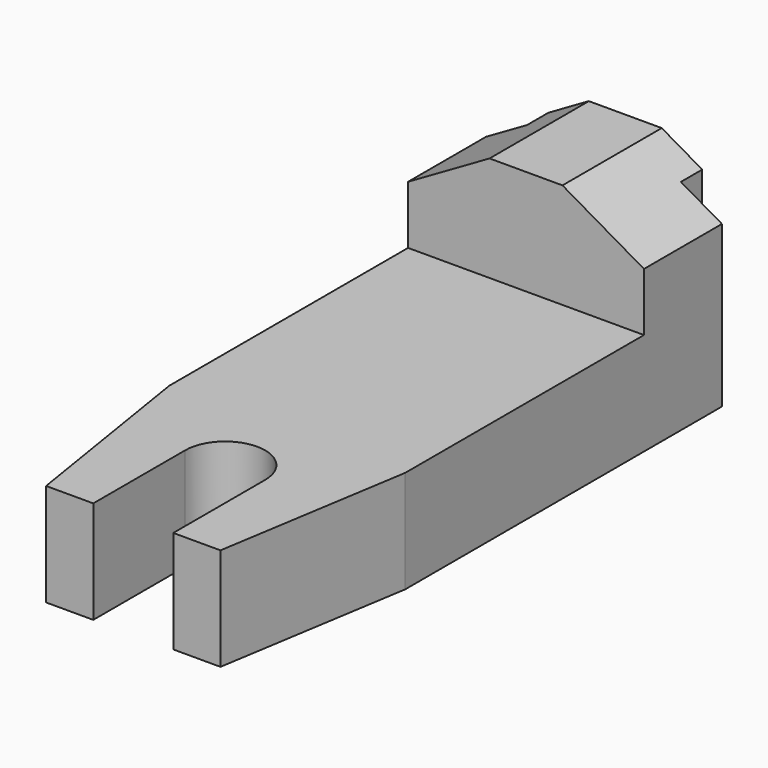
from build123d import *

# Parameters (mm, degrees)
F1_DEPTH = 25.4
F3_DEPTH = 30.734
F4_W     = 10.16
F4_H     = 6.604
F5_DEPTH = 51.463376
F6_W     = 10.16
F6_H     = 6.604
F7_DEPTH = 51.463376


with BuildPart() as f1:
    # F0 (on Top) → F1 (new body)
    with BuildSketch(Plane.XY):
        with BuildLine():
            Line((27.759297, 87.433918), (-30.660703, 87.433918))
            Line((-30.660703, 87.433918), (-30.660703, -17.214082))
            Line((-30.660703, -17.214082), (-23.040703, -64.868706))
            Line((-23.040703, -64.868706), (-11.356703, -64.868706))
            Line((-11.356703, -64.868706), (-11.356703, -36.420706))
            ThreePointArc((-11.356703, -36.420706), (-1.450703, -26.514706), (8.455297, -36.420706))
            Line((8.455297, -36.420706), (8.455297, -64.868706))
            Line((8.455297, -64.868706), (20.139297, -64.868706))
            Line((20.139297, -64.868706), (27.759297, -17.214082))
            Line((27.759297, -17.214082), (27.759297, 87.433918))
        make_face()
    extrude(amount=F1_DEPTH)

    # F2 (on face) → F3 (join)
    with BuildSketch(Plane(origin=(0, 87.433918, 0), x_dir=(-1, 0, 0), z_dir=(0, 1, 0))):
        Polygon((10.477128, 51.462376), (-7.575722, 51.462376), (-27.759297, 39.809384), (-27.759297, 25.4), (30.660703, 25.4), (30.660703, 39.809384), align=None)
    extrude(amount=-F3_DEPTH)

    # F4 (on face) → F5 (cut, through all)
    with BuildSketch(Plane(origin=(0, 0, 0), x_dir=(1, 0, 0), z_dir=(0, 0, -1))):
        with Locations((-25.580703, -84.131918)):
            Rectangle(F4_W, F4_H)
    extrude(amount=-F5_DEPTH, mode=Mode.SUBTRACT)

    # F6 (on face) → F7 (cut, through all)
    with BuildSketch(Plane(origin=(0, 0, 0), x_dir=(1, 0, 0), z_dir=(0, 0, -1))):
        with Locations((22.679297, -84.131918)):
            Rectangle(F6_W, F6_H)
    extrude(amount=-F7_DEPTH, mode=Mode.SUBTRACT)


solid = f1.part
